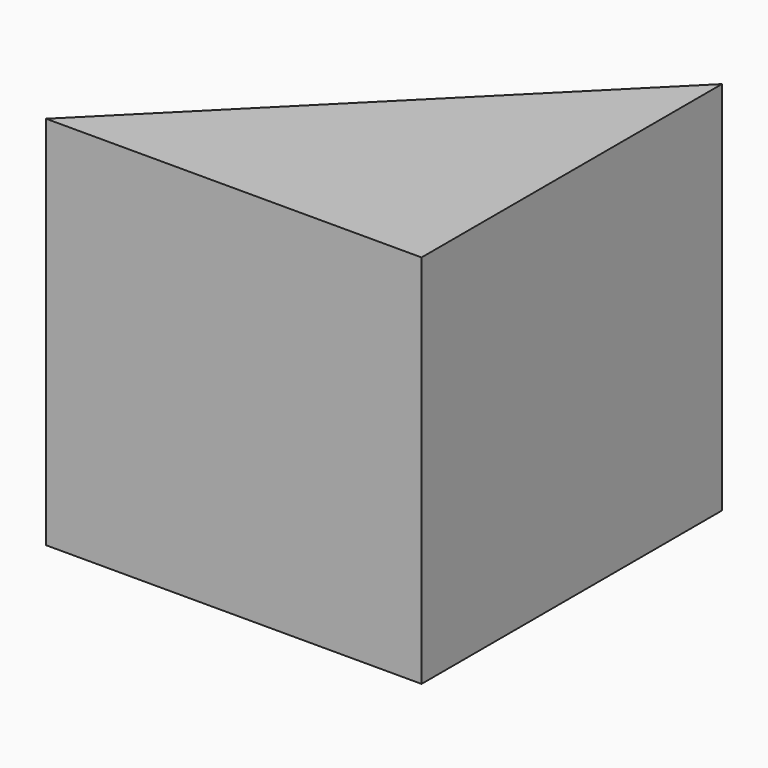
from build123d import *

# Parameters (mm, degrees)
F0_W     = 20
F0_H     = 20
F1_DEPTH = 20
F4_DEPTH = 15


with BuildPart() as f1:
    # F0 (on Top) → F1 (new body)
    with BuildSketch(Plane.XY):
        Rectangle(F0_W, F0_H)
    extrude(amount=F1_DEPTH)

    # F3 (on 3pt) → F4 (cut, symmetric)
    with BuildSketch(Plane(origin=(0, 0, 0), x_dir=(-0.7071067812, 0.7071067812, 0), z_dir=(0.7071067812, 0.7071067812, 0))):
        Polygon((14.1421356237, 0), (14.1421356237, 20), (0, 20), align=None)
    extrude(amount=F4_DEPTH, both=True, mode=Mode.SUBTRACT)


solid = f1.part
